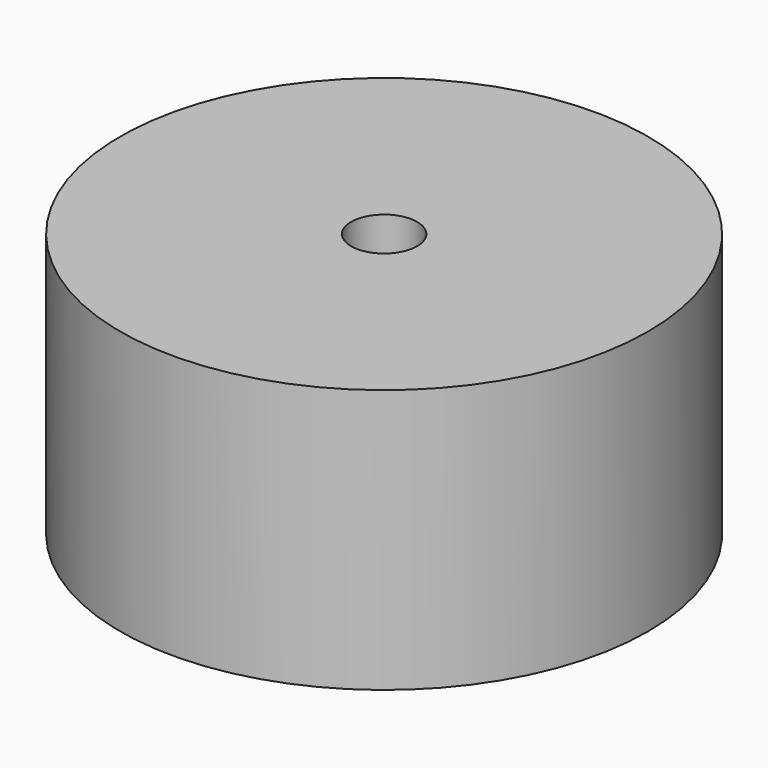
from build123d import *

# Parameters (mm, degrees)
SKETCH_R      = 20
SKETCH_R_2    = 2.5
PAD_DEPTH     = 20
SKETCH001_R   = 20
SKETCH001_R_2 = 2.5
PAD001_DEPTH  = 20


with BuildPart() as body:
    # Sketch → Pad (new body)
    with BuildSketch(Plane.XY):
        Circle(SKETCH_R)
        Circle(SKETCH_R_2, mode=Mode.SUBTRACT)
        with BuildLine():
            ThreePointArc((15.874508, 2), (6.122935, 14.782073), (-9.810759, 12.639186))
            Line((-2.585786, 5.414214), (-9.810759, 12.639186))
            ThreePointArc((5.656854, 2), (2.296101, 5.543277), (-2.585786, 5.414214))
            Line((5.656854, 2), (15.874508, 2))
        make_face(mode=Mode.SUBTRACT)
        with BuildLine():
            Line((5.656854, -2), (15.874508, -2))
            ThreePointArc((-9.810759, -12.639186), (6.122935, -14.782073), (15.874508, -2))
            Line((-9.810759, -12.639186), (-2.585786, -5.414214))
            ThreePointArc((-2.585786, -5.414214), (2.296101, -5.543277), (5.656854, -2))
        make_face(mode=Mode.SUBTRACT)
        with BuildLine():
            Line((-5.414214, 2.585786), (-12.639186, 9.810759))
            ThreePointArc((-12.639186, 9.810759), (-16, 0), (-12.639186, -9.810759))
            Line((-5.414214, -2.585786), (-12.639186, -9.810759))
            ThreePointArc((-5.414214, 2.585786), (-6, 0), (-5.414214, -2.585786))
        make_face(mode=Mode.SUBTRACT)
    extrude(amount=PAD_DEPTH)


with BuildPart() as body001:
    # Sketch001 → Pad001 (new body)
    with BuildSketch(Plane.XY):
        Circle(SKETCH001_R)
        Circle(SKETCH001_R_2, mode=Mode.SUBTRACT)
    extrude(amount=PAD001_DEPTH)


solid = Compound([body.part, body001.part])
